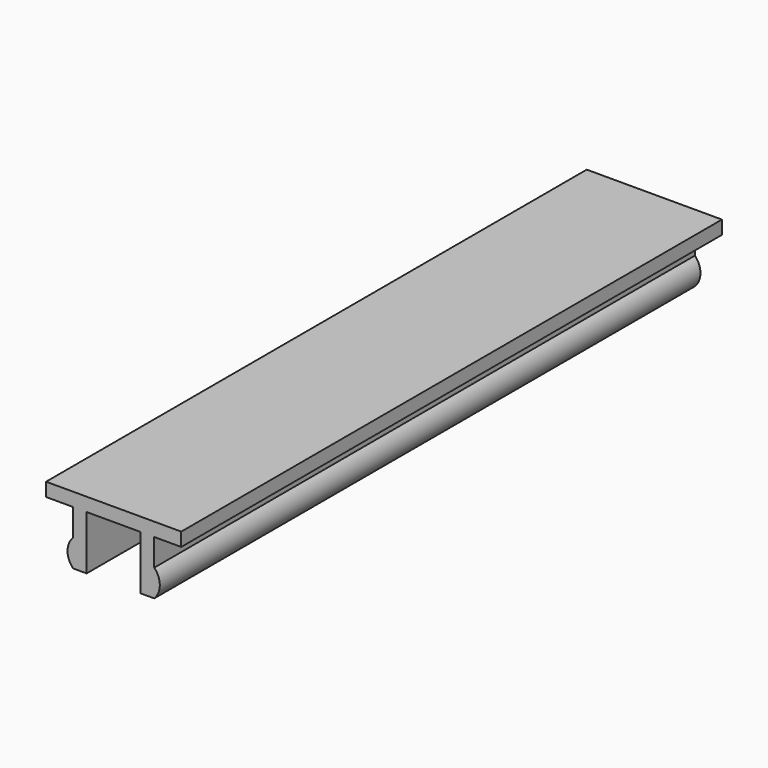
from build123d import *

# Parameters (mm, degrees)
F1_DEPTH = 50


with BuildPart() as f1:
    # F0 (on Front) → F1 (new body)
    with BuildSketch(Plane.XZ):
        with BuildLine():
            Line((0, 0), (0, 1))
            Line((0, 1), (-5, 1))
            Line((-5, 1), (-5, 0))
            Line((-5, 0), (-3, 0))
            Line((-3, 0), (-3, -2))
            ThreePointArc((-3, -2), (-3.414214, -3), (-3, -4))
            Line((-3, -4), (-2, -4))
            Line((-2, -4), (-2, 0))
            Line((-2, 0), (0, 0))
        make_face()
    extrude(amount=F1_DEPTH)

    # F2: F1 across plane


with BuildPart() as f1_1:
    add(f1.part)
    add(f1.part.mirror(Plane.YZ))


solid = f1_1.part
